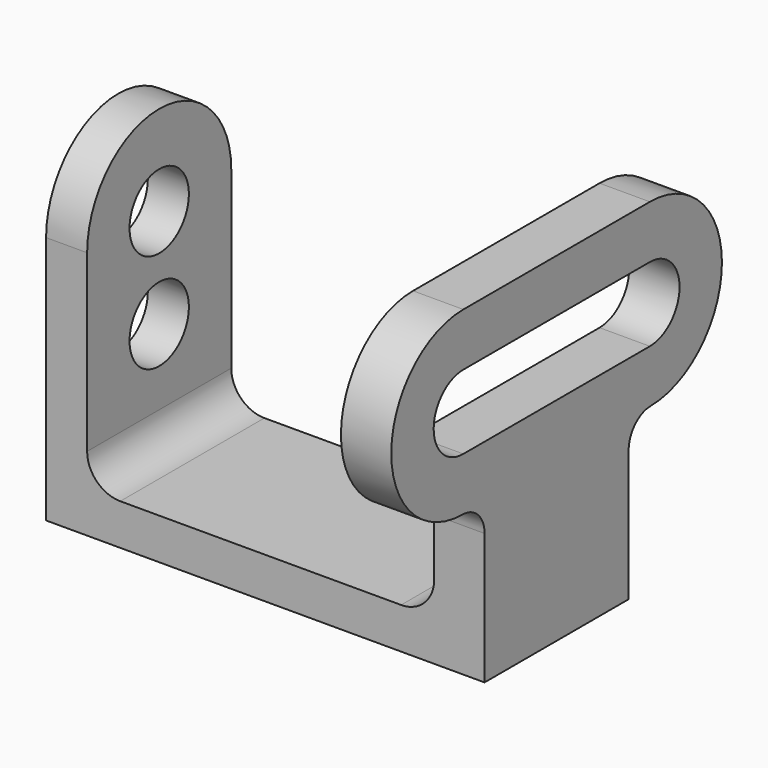
from build123d import *

# Parameters (mm, degrees)
F0_W      = 84.074
F0_H      = 47.752
F1_DEPTH  = 34.544
F2_W      = 66.548
F2_H      = 39.878
F3_DEPTH  = 34.545
F4_R      = 6.35
F6_DEPTH  = 7.874
F7_R      = 7.112
F8_DEPTH  = 25.4
F10_DEPTH = 9.652
F11_W     = 34.544
F11_H     = 7.112
F12_DEPTH = 25.4
F13_R     = 5.334


with BuildPart() as f1:
    # F0 (on Front) → F1 (new body)
    with BuildSketch(Plane.XZ):
        with Locations((0, 23.876)):
            Rectangle(F0_W, F0_H)
    extrude(amount=-F1_DEPTH)

    # F2 (on Front) → F3 (cut, through all)
    with BuildSketch(Plane.XZ):
        with Locations((-0.889, 27.813)):
            Rectangle(F2_W, F2_H)
    extrude(amount=-F3_DEPTH, mode=Mode.SUBTRACT)

    # F4
    f4_edges = [f1.edges().sort_by_distance(p)[0] for p in [
        (-34.163, 17.272, 7.874),
        (32.385, 17.272, 7.874),
    ]]
    fillet(f4_edges, radius=F4_R)

    # F5 (on face) → F6 (join)
    with BuildSketch(Plane.YZ.offset(-34.163)):
        with BuildLine():
            Line((0, 47.752), (34.544, 47.752))
            ThreePointArc((34.544, 47.752), (17.272, 65.024), (0, 47.752))
        make_face()
    extrude(amount=-F6_DEPTH)

    # F7 (on face) → F8 (cut)
    with BuildSketch(Plane.YZ.offset(-34.163)):
        with Locations((17.272, 47.752)):
            Circle(F7_R)
        with Locations((17.272, 28.702)):
            Circle(F7_R)
    extrude(amount=-F8_DEPTH, mode=Mode.SUBTRACT)

    # F9 (on face) → F10 (join)
    with BuildSketch(Plane.YZ.offset(42.037)):
        with BuildLine():
            ThreePointArc((-5.08, 65.024), (-22.352, 47.752), (-5.08, 30.48))
            Line((-5.08, 30.48), (39.624, 30.48))
            ThreePointArc((39.624, 30.48), (56.896, 47.752), (39.624, 65.024))
            Line((39.624, 65.024), (-5.08, 65.024))
        make_face()
        with BuildLine():
            ThreePointArc((-5.08, 40.64), (-12.192, 47.752), (-5.08, 54.864))
            Line((-5.08, 54.864), (39.624, 54.864))
            ThreePointArc((39.624, 54.864), (46.736, 47.752), (39.624, 40.64))
            Line((39.624, 40.64), (-5.08, 40.64))
        make_face(mode=Mode.SUBTRACT)
    extrude(amount=-F10_DEPTH)

    # F11 (on face) → F12 (cut)
    with BuildSketch(Plane.YZ.offset(42.037)):
        with Locations((17.272, 44.196)):
            Rectangle(F11_W, F11_H)
    extrude(amount=-F12_DEPTH, mode=Mode.SUBTRACT)

    # F13
    f13_edges = [f1.edges().sort_by_distance(p)[0] for p in [
        (37.211, 0, 30.48),
        (37.211, 34.544, 30.48),
    ]]
    fillet(f13_edges, radius=F13_R)


solid = f1.part
